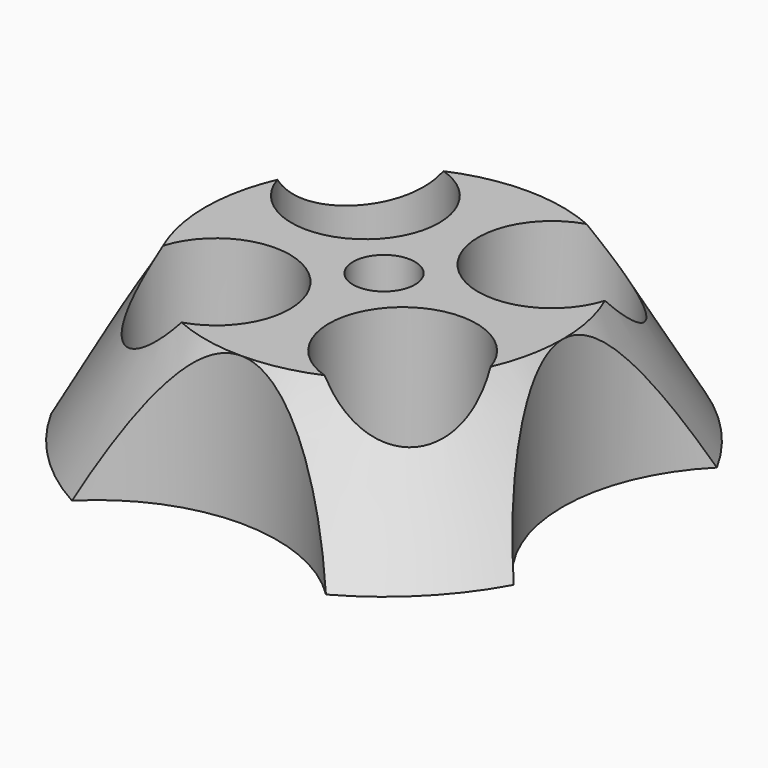
from build123d import *

# Parameters (mm, degrees)
F3_DEPTH = 20.001
F4_R     = 10
F5_DEPTH = 20.0010001


with BuildPart() as f1:
    # F0 (on Front) → F1 (revolve)
    with BuildSketch(Plane.XZ):
        Polygon((-4.2, 0), (-4.2, 20), (-24.2264973081, 20), (-35.7735026919, 0), align=None)
    revolve(axis=Axis((0, 0, 10), (0, 0, 1)))

    # F2 (on Top) → F3 (cut, through all)
    with BuildSketch(Plane.XY):
        with BuildLine():
            ThreePointArc((-17.2168920075, 31.3579674795), (0, 24.2264973081), (17.2168920075, 31.3579674795))
            ThreePointArc((17.2168920075, 31.3579674795), (0, 35.7735026919), (-17.2168920075, 31.3579674795))
        make_face()
        with BuildLine():
            ThreePointArc((31.3579674795, -17.2168920075), (34.6520405524, -8.887045651), (35.7735026919, 0))
            ThreePointArc((35.7735026919, 0), (34.6520405524, 8.887045651), (31.3579674795, 17.2168920075))
            ThreePointArc((31.3579674795, 17.2168920075), (24.2264973081, 0), (31.3579674795, -17.2168920075))
        make_face()
        with BuildLine():
            ThreePointArc((-17.2168920075, -31.3579674795), (0, -35.7735026919), (17.2168920075, -31.3579674795))
            ThreePointArc((17.2168920075, -31.3579674795), (0, -24.2264973081), (-17.2168920075, -31.3579674795))
        make_face()
        with BuildLine():
            ThreePointArc((-31.3579674795, -17.2168920075), (-24.2264973081, 0), (-31.3579674795, 17.2168920075))
            ThreePointArc((-31.3579674795, 17.2168920075), (-35.7735026919, 0), (-31.3579674795, -17.2168920075))
        make_face()
    extrude(amount=F3_DEPTH, mode=Mode.SUBTRACT)

    # F4 (on Top) → F5 (cut, through all)
    with BuildSketch(Plane.XY):
        with Locations((-12.6478431701, -12.6478431701)):
            Circle(F4_R)
        with Locations((12.6478431701, -12.6478431701)):
            Circle(F4_R)
        with Locations((12.6478431701, 12.6478431701)):
            Circle(F4_R)
        with Locations((-12.6478431701, 12.6478431701)):
            Circle(F4_R)
    extrude(amount=F5_DEPTH, mode=Mode.SUBTRACT)


solid = f1.part
